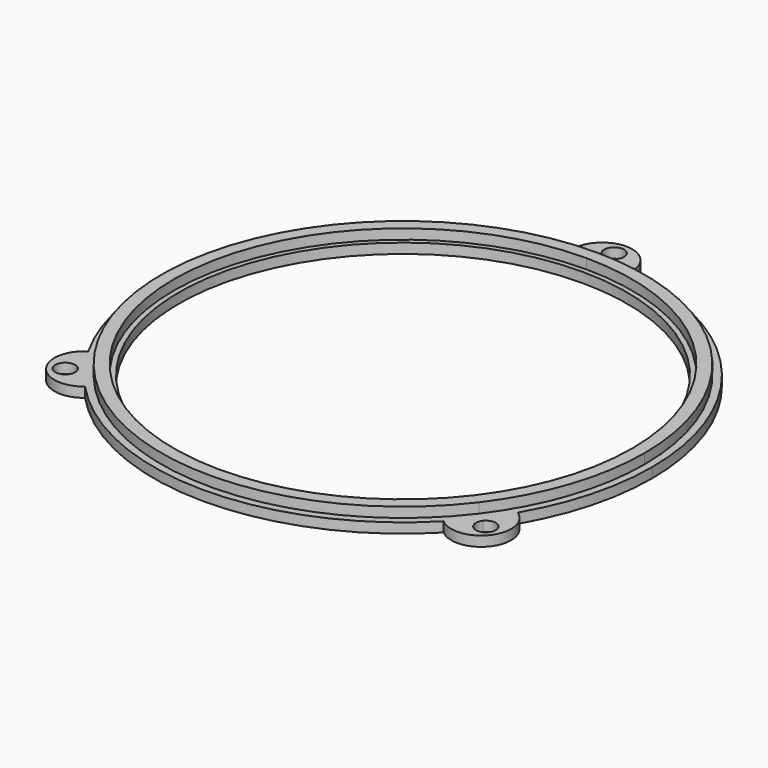
from build123d import *

# Parameters (mm, degrees)
F1_DEPTH = 4
F2_DEPTH = 2


with BuildPart() as f1:
    # F0 (on Top) → F1 (new body)
    with BuildSketch(Plane.XY):
        with BuildLine():
            Line((0, 46), (0, 48.5))
            ThreePointArc((0, 48.5), (-43.2585399295, 21.9305431572), (-39.1209598697, -28.6670629621))
            Line((-39.1209598697, -28.6670629621), (-37.1044155465, -27.1893793042))
            ThreePointArc((-37.1044155465, -27.1893793042), (-41.0287182836, 20.8001027883), (0, 46))
        make_face()
        with BuildLine():
            ThreePointArc((-39.1209598697, -28.6670629621), (-0.384054582, -48.498479379), (38.6620589982, -29.2830188679))
            Line((38.6620589982, -29.2830188679), (36.6691693591, -27.7735849057))
            ThreePointArc((36.6691693591, -27.7735849057), (-0.3642579541, -45.9985577616), (-37.1044155465, -27.1893793042))
            Line((-37.1044155465, -27.1893793042), (-39.1209598697, -28.6670629621))
        make_face()
        with BuildLine():
            ThreePointArc((48.5, 0), (34.2946788875, 34.2946788875), (0, 48.5))
            Line((0, 48.5), (0, 46))
            ThreePointArc((0, 46), (32.5269119346, 32.5269119346), (46, 0))
            ThreePointArc((46, 0), (43.6049411794, -14.6495428168), (36.6691693591, -27.7735849057))
            Line((36.6691693591, -27.7735849057), (38.6620589982, -29.2830188679))
            ThreePointArc((38.6620589982, -29.2830188679), (45.9747749392, -15.445713622), (48.5, 0))
        make_face()
    extrude(amount=F1_DEPTH)

    # F0 (on Top) → F2 (join)
    with BuildSketch(Plane.XY):
        with BuildLine():
            Line((0, 48.5), (0, 50))
            ThreePointArc((-3e-10, 50), (-3.0000000001, 49.9099188539), (-5.9891902625, 49.64))
            ThreePointArc((-5.9891902625, 49.64), (-44.596432917, 22.6088073786), (-43.5805555109, -24.5098996604))
            ThreePointArc((-43.5805555109, -24.5098996604), (-42.0314458226, -27.0805753644), (-40.3308865052, -29.5536731))
            Line((-40.3308864636, -29.5536731568), (-39.1209598697, -28.6670629621))
            ThreePointArc((-39.1209598697, -28.6670629621), (-43.2585399295, 21.9305431572), (0, 48.5))
        make_face()
        with BuildLine():
            Line((0, 45), (0, 46))
            ThreePointArc((0, 46), (-41.0287182836, 20.8001027883), (-37.1044155465, -27.1893793042))
            Line((-37.1044155465, -27.1893793042), (-36.2977978173, -26.5983058411))
            ThreePointArc((-36.2977978173, -26.5983058411), (-40.1367896253, 20.3479266407), (0, 45))
        make_face()
        with BuildLine():
            ThreePointArc((35.9547017982, -34.7456388429), (37.9746633311, -32.5257581755), (39.8577928138, -30.1886792029))
            Line((39.8577927817, -30.1886792453), (38.6620589982, -29.2830188679))
            ThreePointArc((38.6620589982, -29.2830188679), (-0.384054582, -48.498479379), (-39.1209598697, -28.6670629621))
            Line((-39.1209598697, -28.6670629621), (-40.3308864636, -29.5536731568))
            ThreePointArc((-40.3308865052, -29.5536731), (-38.4850050472, -31.9202817425), (-36.5004526513, -34.1718737597))
            ThreePointArc((-36.5004526513, -34.1718737597), (-0.3959325588, -49.9984323495), (35.9547017982, -34.7456388429))
        make_face()
        with BuildLine():
            ThreePointArc((-37.1044155465, -27.1893793042), (-0.3642579541, -45.9985577616), (36.6691693591, -27.7735849057))
            Line((36.6691693591, -27.7735849057), (35.8720135035, -27.1698113208))
            ThreePointArc((35.8720135035, -27.1698113208), (-0.3563393029, -44.9985891146), (-36.2977978173, -26.5983058411))
            Line((-36.2977978173, -26.5983058411), (-37.1044155465, -27.1893793042))
        make_face()
        with BuildLine():
            ThreePointArc((-45.1705928336, -33.1001139433), (-41.0669741282, -35.5083498861), (-36.5004526513, -34.1718737597))
            ThreePointArc((-36.5004526513, -34.1718737597), (-38.4850050472, -31.9202817425), (-40.3308865052, -29.5536731))
            ThreePointArc((-40.3308865052, -29.5536731), (-39.8994627937, -30.3940375655), (-39.7507396514, -31.3268935462))
            ThreePointArc((-39.7507396514, -31.3268935462), (-41.8178836997, -34.1781704134), (-45.1705928336, -33.1001139433))
        make_face()
        with BuildLine():
            ThreePointArc((-39.7507396514, -31.3268935462), (-39.8994627937, -30.3940375655), (-40.3308865052, -29.5536731))
            ThreePointArc((-40.3308865052, -29.5536731), (-44.5239600731, -28.907040382), (-45.1705928336, -33.1001139433))
            ThreePointArc((-45.1705928336, -33.1001139433), (-41.8178836997, -34.1781704134), (-39.7507396514, -31.3268935462))
        make_face()
        with BuildLine():
            ThreePointArc((-40.7507396514, -31.3268935462), (-44.6515908972, -31.948797511), (-41.1375041929, -30.1447466199))
            ThreePointArc((-41.1375041929, -30.1447466199), (-40.8498884057, -30.7049895814), (-40.7507396514, -31.3268935462))
        make_face(mode=Mode.SUBTRACT)
        with BuildLine():
            ThreePointArc((-40.3308865052, -29.5536731), (-42.0314458226, -27.0805753644), (-43.5805555109, -24.5098996604))
            ThreePointArc((-43.5805555109, -24.5098996604), (-46.2306698509, -28.4616310409), (-45.1705928336, -33.1001139433))
            ThreePointArc((-45.1705928336, -33.1001139433), (-44.5239600731, -28.907040382), (-40.3308865052, -29.5536731))
        make_face()
        with BuildLine():
            ThreePointArc((44.640728683, -33.8113197413), (40.4379400794, -34.3914679346), (39.8577928138, -30.1886792029))
            ThreePointArc((39.8577928138, -30.1886792029), (37.9746633311, -32.5257581755), (35.9547017982, -34.7456388429))
            ThreePointArc((35.9547017982, -34.7456388429), (40.4994857112, -36.154266407), (44.640728683, -33.8113197413))
        make_face()
        with BuildLine():
            ThreePointArc((44.640728683, -33.8113197413), (45.774130629, -29.1902071747), (43.1869315491, -25.1970026665))
            ThreePointArc((43.1869315491, -25.1970026665), (41.597304838, -27.7428230397), (39.8577928138, -30.1886792029))
            ThreePointArc((39.8577928138, -30.1886792029), (43.2046653401, -29.1561994968), (45.2492603486, -32))
            ThreePointArc((45.2492603486, -32), (45.0930610627, -32.9554043637), (44.640728683, -33.8113197413))
        make_face()
        with BuildLine():
            ThreePointArc((45.2492603486, -32), (43.2046653401, -29.1561994968), (39.8577928138, -30.1886792029))
            ThreePointArc((39.8577928138, -30.1886792029), (40.4379400794, -34.3914679346), (44.640728683, -33.8113197413))
            ThreePointArc((44.640728683, -33.8113197413), (45.0930610627, -32.9554043637), (45.2492603486, -32))
        make_face()
        with BuildLine():
            ThreePointArc((44.2492603486, -32), (41.6123237043, -33.8958670078), (40.6549486373, -30.7924528302))
            ThreePointArc((40.6549486373, -30.7924528302), (42.8861969928, -30.1041329922), (44.2492603486, -32))
        make_face(mode=Mode.SUBTRACT)
        with BuildLine():
            ThreePointArc((43.1869315491, -25.1970026665), (48.2666892248, -13.050927602), (50, 0))
            ThreePointArc((50, 0), (37.4129624136, 33.1703217265), (5.9891902625, 49.64))
            ThreePointArc((5.9891902625, 49.64), (2.9999999999, 49.9099188539), (-3e-10, 50))
            Line((0, 50), (0, 48.5))
            ThreePointArc((0, 48.5), (34.2946788875, 34.2946788875), (48.5, 0))
            ThreePointArc((48.5, 0), (45.9747749392, -15.445713622), (38.6620589982, -29.2830188679))
            Line((38.6620589982, -29.2830188679), (39.8577927817, -30.1886792453))
            ThreePointArc((39.8577928138, -30.1886792029), (41.597304838, -27.7428230397), (43.1869315491, -25.1970026665))
        make_face()
        with BuildLine():
            ThreePointArc((46, 0), (32.5269119346, 32.5269119346), (0, 46))
            Line((0, 46), (0, 45))
            ThreePointArc((0, 45), (31.8198051534, 31.8198051534), (45, 0))
            ThreePointArc((45, 0), (42.6570076755, -14.3310744947), (35.8720135035, -27.1698113208))
            Line((35.8720135035, -27.1698113208), (36.6691693591, -27.7735849057))
            ThreePointArc((36.6691693591, -27.7735849057), (43.6049411794, -14.6495428168), (46, 0))
        make_face()
        with BuildLine():
            ThreePointArc((0, 56), (-3, 53.0000000001), (-3e-10, 50))
            ThreePointArc((-3e-10, 50), (2.1213203435, 50.8786796564), (3, 53))
            ThreePointArc((3, 53), (2.1213203436, 55.1213203436), (0, 56))
        make_face()
        with BuildLine():
            ThreePointArc((2, 53), (1.4142135624, 51.5857864376), (0, 51))
            ThreePointArc((0, 51), (-1.4142135624, 54.4142135624), (2, 53))
        make_face(mode=Mode.SUBTRACT)
        with BuildLine():
            ThreePointArc((-3e-10, 50), (2.9999999999, 49.9099188539), (5.9891902625, 49.64))
            ThreePointArc((5.9891902625, 49.64), (4.3680659336, 54.1133927602), (0, 56))
            ThreePointArc((0, 56), (2.1213203436, 55.1213203436), (3, 53))
            ThreePointArc((3, 53), (2.1213203435, 50.8786796564), (-3e-10, 50))
        make_face()
        with BuildLine():
            ThreePointArc((-5.9891902625, 49.64), (-3.0000000001, 49.9099188539), (-3e-10, 50))
            ThreePointArc((-3e-10, 50), (-3, 53.0000000001), (0, 56))
            ThreePointArc((0, 56), (-4.3680659336, 54.1133927602), (-5.9891902625, 49.64))
        make_face()
    extrude(amount=F2_DEPTH)


solid = f1.part
